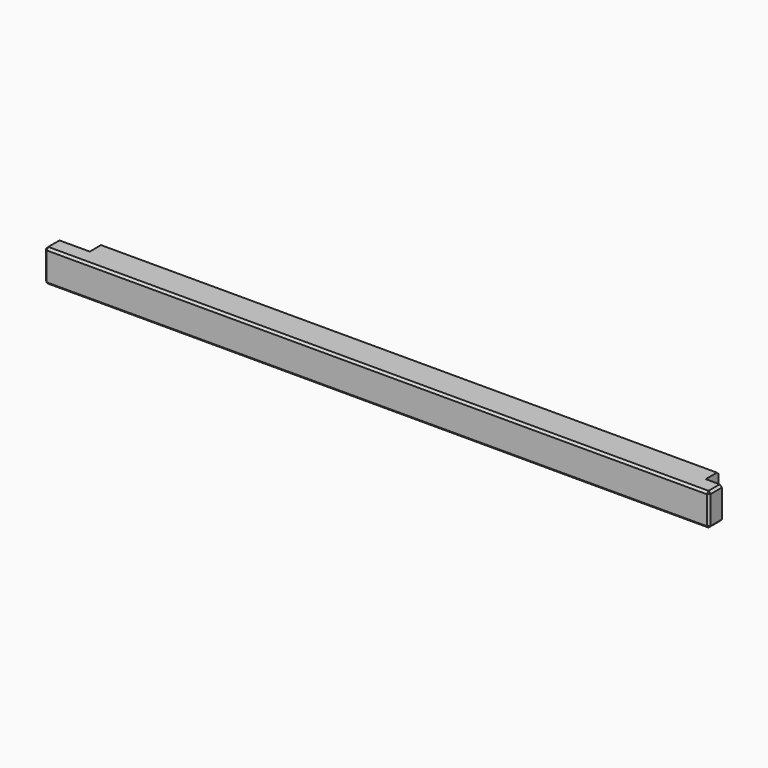
from build123d import *

# Parameters (mm, degrees)
F0_W     = 3075
F0_H     = 150
F1_DEPTH = 150
F2_SIZE  = 10
F3_W     = 65
F3_H     = 65
F4_DEPTH = 150.001
F5_W     = 140
F5_H     = 65
F6_DEPTH = 150.001


with BuildPart() as f1:
    # F0 (on Top) → F1 (new body)
    with BuildSketch(Plane.XY):
        Rectangle(F0_W, F0_H)
    extrude(amount=F1_DEPTH)

    # F2
    f2_edges = [f1.edges().sort_by_distance(p)[0] for p in [
        (0, 75, 150),
        (-1537.5, 0, 150),
        (0, -75, 150),
        (1537.5, 0, 150),
        (-1537.5, -75, 75),
        (1537.5, -75, 75),
        (0, -75, 0),
        (-1537.5, 75, 75),
        (0, 75, 0),
        (-1537.5, 0, 0),
        (1537.5, 0, 0),
        (1537.5, 75, 75),
    ]]
    chamfer(f2_edges, length=F2_SIZE)

    # F3 (on face) → F4 (cut, through all)
    with BuildSketch(Plane.XY.offset(150)):
        Polygon((1537.5, 0), (1537.5, 75), (1462.5, 75), (1462.5, 65), (1527.5, 65), (1527.5, 0), align=None)
        with Locations((1495, 32.5)):
            Rectangle(F3_W, F3_H)
    extrude(amount=-F4_DEPTH, mode=Mode.SUBTRACT)

    # F5 (on face) → F6 (cut, through all)
    with BuildSketch(Plane.XY.offset(150)):
        Polygon((-1387.5, 65), (-1387.5, 75), (-1537.5, 75), (-1537.5, 0), (-1527.5, 0), (-1527.5, 65), align=None)
        with Locations((-1457.5, 32.5)):
            Rectangle(F5_W, F5_H)
    extrude(amount=-F6_DEPTH, mode=Mode.SUBTRACT)


solid = f1.part
